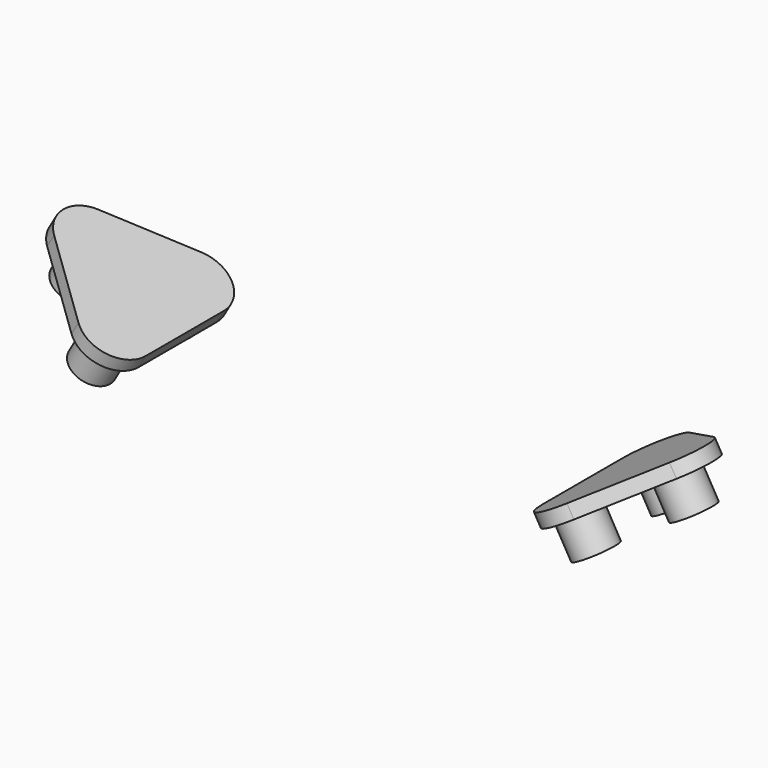
from build123d import *

# Parameters (mm, degrees)
F4_DEPTH = 125
F5_R     = 300
F6_R     = 190
F7_DEPTH = 305


with BuildPart() as f4:
    # F3 (on face) → F4 (new body)
    with BuildSketch(Plane(origin=(305.4311259229, 0, -529.0222283114), x_dir=(0.8660254038, 0, 0.5), z_dir=(0.5, 0, -0.8660254038))):
        Polygon((1718.0444566228, -1000), (3218.0444566228, 0), (1718.0444566228, 1000), align=None)
    extrude(amount=F4_DEPTH)

    # F5
    f5_edges = [f4.edges().sort_by_distance(p)[0] for p in [
        (3123.589376, 0, 1025.873412),
        (1824.55127, -1000, 275.873412),
        (1824.55127, 1000, 275.873412),
    ]]
    fillet(f5_edges, radius=F5_R)

    # F6 (on face) → F7 (join)
    with BuildSketch(Plane(origin=(367.9311259229, 0, -637.2754037844), x_dir=(0.8660254038, 0, 0.5), z_dir=(0.5, 0, -0.8660254038))):
        with Locations((2618.0444566228, 0)):
            Circle(F6_R)
        with Locations((2018.0444566228, -450)):
            Circle(F6_R)
        with Locations((2018.0444566228, 450)):
            Circle(F6_R)
    extrude(amount=F7_DEPTH)


with BuildPart() as f8_1:
    # F8: instance of F4
    add(f4.part.mirror(Plane.YZ))


solid = Compound([f4.part, f8_1.part])
